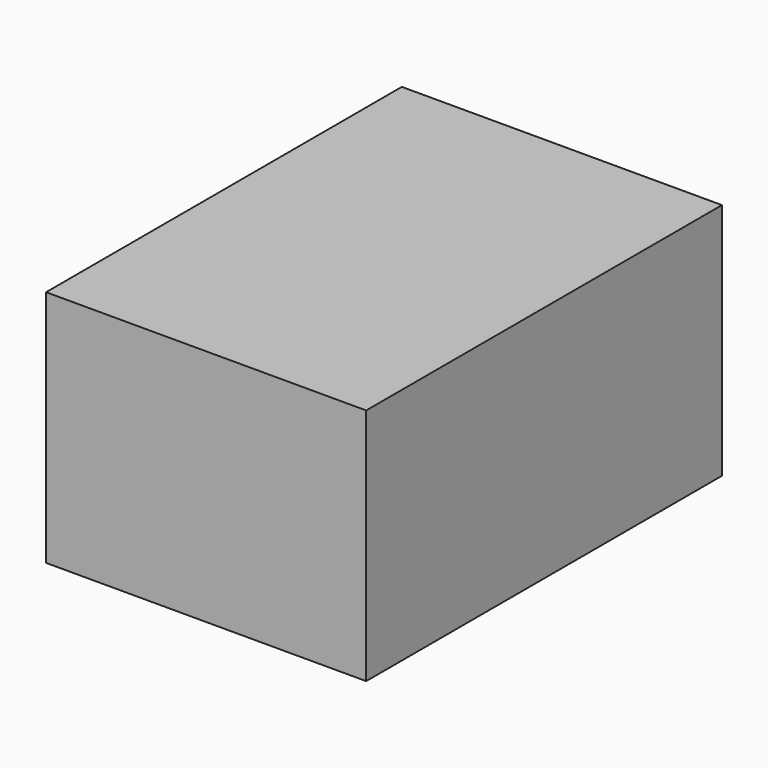
from build123d import *

# Parameters (mm, degrees)
F0_W          = 76.7591
F0_H          = 106.632992
F1_DEPTH      = 25.4
F1_DEPTH_BACK = 25.4
F1_FACE_W     = 76.7591
F1_FACE_H     = 106.632992
F2_DEPTH      = 6.35


with BuildPart() as f1:
    # F0 (on Top) → F1 (new body, two sides)
    with BuildSketch(Plane.XY) as f1_sk:
        Rectangle(F0_W, F0_H)
    extrude(amount=F1_DEPTH)
    extrude(f1_sk.sketch, amount=-F1_DEPTH_BACK)

    # F1_face (on face) → F2 (join)
    with BuildSketch(Plane.XY.offset(25.4)):
        Rectangle(F1_FACE_W, F1_FACE_H)
    extrude(amount=F2_DEPTH)


solid = f1.part
